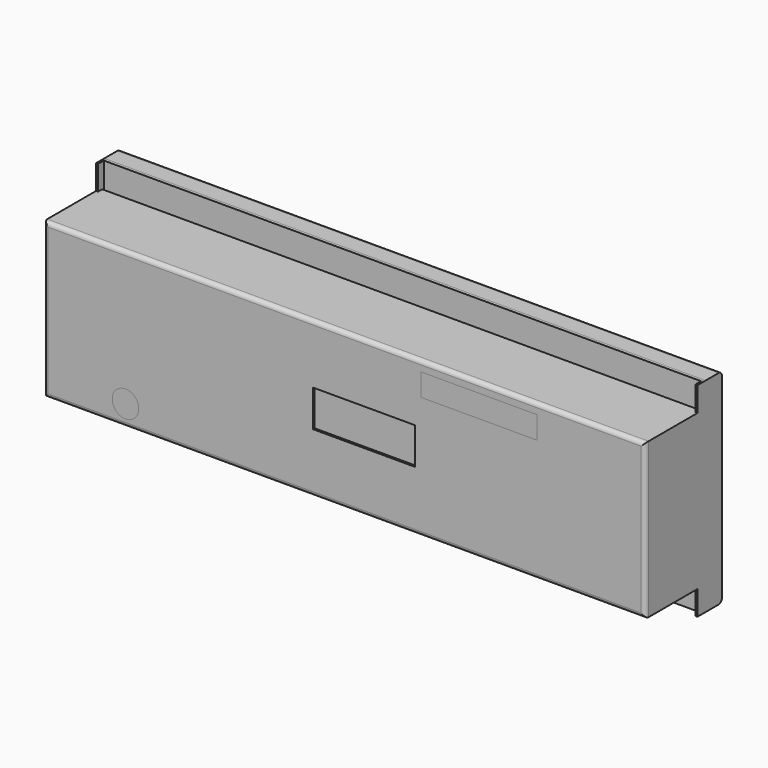
from build123d import *

# Parameters (mm, degrees)
F0_W         = 295
F0_H         = 100
F1_DEPTH     = 47
F2_W         = 295
F2_H         = 12
F3_DEPTH     = 32
F4_W         = 293
F4_H         = 12
F5_W         = 293
F5_H         = 12
F6_DEPTH     = 5
F7_W         = 293
F7_H         = 2.5
F8_DEPTH     = 88.001
F9_W         = 50
F9_H         = 18
F9_R         = 6.5
F9_W_2       = 57
F9_H_2       = 11
F10_DEPTH    = 5
F10_FACE_W   = 50
F10_FACE_H   = 18
F11_DEPTH    = 4
F10_FACE_R   = 6.5
F10_FACE_W_2 = 57
F10_FACE_H_2 = 11
F12_DEPTH    = 5
F8_FACE_W    = 293
F8_FACE_H    = 100
F13_DEPTH    = 1.5
F14_W        = 45
F14_H        = 35
F15_DEPTH    = 3
F16_R        = 2


with BuildPart() as f1:
    # F0 (on Front) → F1 (new body)
    with BuildSketch(Plane.XZ):
        Rectangle(F0_W, F0_H)
    extrude(amount=F1_DEPTH)

    # F2 (on face) → F3 (cut)
    with BuildSketch(Plane.XZ.offset(47)):
        with Locations((0, -44)):
            Rectangle(F2_W, F2_H)
        with Locations((0, 44)):
            Rectangle(F2_W, F2_H)
    extrude(amount=-F3_DEPTH, mode=Mode.SUBTRACT)

    # F4 (on face) + F5 (on face) → F6 (cut)
    with BuildSketch(Plane.XZ.offset(15)):
        with Locations((0, 44)):
            Rectangle(F4_W, F4_H)
    with BuildSketch(Plane.XZ.offset(15)):
        with Locations((0, -44)):
            Rectangle(F5_W, F5_H)
    extrude(amount=-F6_DEPTH, mode=Mode.SUBTRACT)

    # F7 (on face) → F8 (cut, through all)
    with BuildSketch(Plane(origin=(0, 0, -38), x_dir=(1, 0, 0), z_dir=(0, 0, -1))):
        with Locations((0, 11.25)):
            Rectangle(F7_W, F7_H)
    extrude(amount=-F8_DEPTH, mode=Mode.SUBTRACT)

    # F9 (on face) → F10 (cut)
    with BuildSketch(Plane.XZ.offset(47)):
        with Locations((9.5, 0)):
            Rectangle(F9_W, F9_H)
        with Locations((-107.5, -28)):
            Circle(F9_R)
        with Locations((66, 27.5)):
            Rectangle(F9_W_2, F9_H_2)
    extrude(amount=-F10_DEPTH, mode=Mode.SUBTRACT)

    # F14 (on face) → F15 (join)
    with BuildSketch(Plane(origin=(0, 0, 0), x_dir=(-1, 0, 0), z_dir=(0, 1, 0))):
        with Locations((-100, 0)):
            Rectangle(F14_W, F14_H)
        with Locations((100, 0)):
            Rectangle(F14_W, F14_H)
    extrude(amount=F15_DEPTH)

    # F16
    f16_edges = [f1.edges().sort_by_distance(p)[0] for p in [
        (0, -47, 38),
        (147.5, -47, 0),
        (-147.5, -47, 0),
        (0, -47, -38),
        (0, 0, 50),
        (0, 0, -50),
    ]]
    fillet(f16_edges, radius=F16_R)


with BuildPart() as f11:
    # F10_face (on face) → F11 (new body)
    with BuildSketch(Plane(origin=(9.5, -42, 0), x_dir=(1, 0, 0), z_dir=(0, -1, 0))):
        Rectangle(F10_FACE_W, F10_FACE_H)
    extrude(amount=F11_DEPTH)


with BuildPart() as f12:
    # F10_face (on face) → F12 (new body, through all)
    with BuildSketch(Plane(origin=(9.5, -42, 0), x_dir=(1, 0, 0), z_dir=(0, -1, 0))):
        with Locations((-117, -28)):
            Circle(F10_FACE_R)
        with Locations((56.5, 27.5)):
            Rectangle(F10_FACE_W_2, F10_FACE_H_2)
    extrude(amount=F12_DEPTH)


with BuildPart() as f13:
    # F8_face (on face) → F13 (new body)
    with BuildSketch(Plane.XZ.offset(10)):
        Rectangle(F8_FACE_W, F8_FACE_H)
    extrude(amount=F13_DEPTH)


solid = Compound([f1.part, f11.part, f12.part, f13.part])
